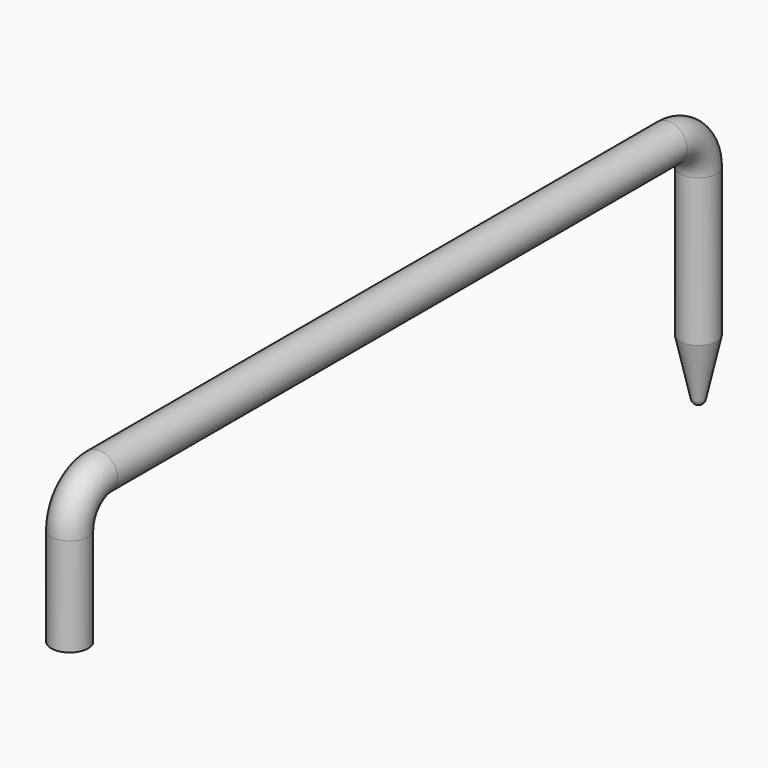
from build123d import *

# Parameters (mm, degrees)
F1_R = 2.38125


with BuildPart() as f2:
    # F2: sweep along a path in F0
    with BuildLine(Plane.YZ) as f2_path:
        Line((0, 0), (0, 12.7))
        ThreePointArc((0, 12.7), (1.3949039546, 16.0675960454), (4.7625, 17.4625))
        Line((4.7625, 17.4625), (96.8375, 17.4625))
        ThreePointArc((96.8375, 17.4625), (100.2050960454, 16.0675960454), (101.6, 12.7))
        Line((101.6, 12.7), (101.6, -6.35))
    # F1 (on Top) → F2 (sweep)
    with BuildSketch(Plane.XY):
        Circle(F1_R)
    sweep(path=f2_path.line)

    # F0 (on Right) → F3 (revolve)
    with BuildSketch(Plane.YZ):
        with BuildLine():
            Line((103.98125, -6.35), (101.6, -6.35))
            Line((101.6, -6.35), (101.6, -13.5071065476))
            Line((101.6, -13.5071065476), (101.6, -14.2875))
            ThreePointArc((101.6, -14.2875), (102.088655971, -14.1155712405), (102.362, -13.6755403345))
            Line((102.362, -13.6755403345), (103.98125, -6.35))
        make_face()
    revolve(axis=Axis((0, 101.6, -9.9285532738), (0, 0, -1)))


solid = f2.part
